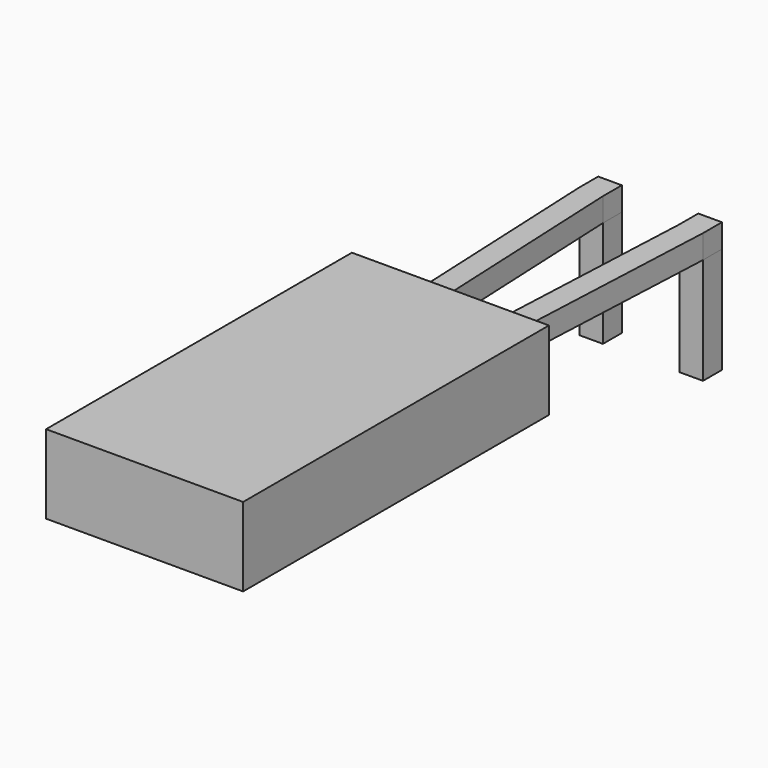
from build123d import *

# Parameters (mm, degrees)
SKETCH_W       = 0.6
SKETCH_H       = 0.6
PAD_DEPTH      = 0.7
PAD_DEPTH_BACK = 2
PAD001_DEPTH   = 0.6
SKETCH002_W    = 2.54
SKETCH002_H    = 0.6
PAD002_DEPTH   = 1
SKETCH004_W    = 5
SKETCH004_H    = 2
PAD003_DEPTH   = 9.7


with BuildPart() as pad:
    # Sketch → Pad (new body, two sides)
    with BuildSketch(Plane.XY) as pad_sk:
        Rectangle(SKETCH_W, SKETCH_H)
        with Locations((2.54, 0)):
            Rectangle(SKETCH_W, SKETCH_H)
    extrude(amount=PAD_DEPTH)
    extrude(pad_sk.sketch, amount=-PAD_DEPTH_BACK)


with BuildPart() as pad001:
    # Sketch001 → Pad001 (new body)
    with BuildSketch(Plane.XY.offset(0.7)):
        Polygon((0.3, 0.3), (-0.3, 0.3), (-0.3, -0.3), (0, -6.85), (0.6, -6.85), (0.3, -0.3), align=None)
        Polygon((2.84, 0.3), (2.24, 0.3), (2.24, -0.3), (1.94, -6.85), (2.54, -6.85), (2.84, -0.3), align=None)
    extrude(amount=PAD001_DEPTH)


with BuildPart() as pad002:
    # Sketch002 → Pad002 (new body)
    with BuildSketch(Plane.XZ.offset(6.85)):
        with Locations((1.27, 1)):
            Rectangle(SKETCH002_W, SKETCH002_H)
    extrude(amount=PAD002_DEPTH)


with BuildPart() as pad003:
    # Sketch004 → Pad003 (new body)
    with BuildSketch(Plane.XZ.offset(6.35)):
        with Locations((1.27, 1)):
            Rectangle(SKETCH004_W, SKETCH004_H)
    extrude(amount=PAD003_DEPTH)


with BuildPart() as revolution001:
    # Sketch005 → Revolution001 (revolve)
    with BuildSketch(Plane.YZ.offset(1.27)):
        Polygon((-7.55, 1), (-8.05, 1), (-8.05, 1.5), align=None)
    revolve(axis=Axis((1.27, -3.977201, 1), (0, -1, 0)))


solid = Compound([pad.part, pad001.part, pad002.part, pad003.part, revolution001.part])
